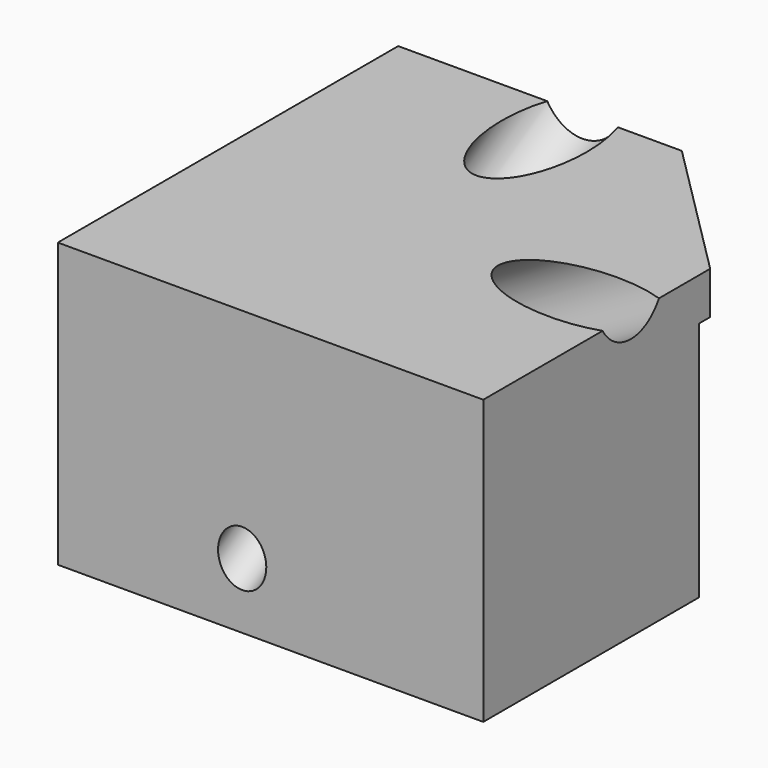
from build123d import *

# Parameters (mm, degrees)
CYLINDER001_R        = 3
CYLINDER001_DEPTH    = 40
CYLINDER_R           = 1.7
CYLINDER_DEPTH       = 40
FUSION001_ROLL_ANGLE = -60
FUSION_PITCH_ANGLE   = 60
BOX001_W             = 18
BOX001_H             = 19
BOX001_DEPTH         = 20
BOX_W                = 30
BOX_H                = 30
BOX_DEPTH            = 20
CHAMFER_SIZE         = 10


with BuildPart() as cylinder001:
    # Cylinder001 → Cylinder001 (new body)
    with BuildSketch(Plane.XY.offset(16)):
        Circle(CYLINDER001_R)
    extrude(amount=CYLINDER001_DEPTH)


with BuildPart() as cylinder:
    # Cylinder → Cylinder (new body)
    with BuildSketch(Plane.XY):
        Circle(CYLINDER_R)
    extrude(amount=CYLINDER_DEPTH)


with BuildPart() as screw001:
    # Fusion001 base: copy of Cylinder
    add(cylinder.part)

    # Fusion001: union Cylinder001
    add(cylinder001.part)


with BuildPart() as screw001_1:
    # Fusion001 roll: moved
    add(screw001.part.rotate(Axis((0, 0, 0), (1, 0, 0)), FUSION001_ROLL_ANGLE))


with BuildPart() as screw001_2:
    # Fusion001 placement: moved
    add(screw001_1.part.moved(Location((13, -8, 0))))


with BuildPart() as fusion002:
    # Fusion base: copy of Cylinder
    add(cylinder.part)

    # Fusion: union Cylinder001
    add(cylinder001.part)


with BuildPart() as fusion002_1:
    # Fusion pitch: moved
    add(fusion002.part.rotate(Axis((0, 0, 0), (0, 1, 0)), FUSION_PITCH_ANGLE))


with BuildPart() as fusion002_2:
    # Fusion placement: moved
    add(fusion002_1.part.moved(Location((-8, 13, 0))))

    # Fusion002: union screw001
    add(screw001_2.part)


with BuildPart() as cube001:
    # Box001 → Box001 (new body)
    with BuildSketch(Plane(origin=(17, 19, -3), x_dir=(1, 0, 0), z_dir=(0, 0, 1))):
        with Locations((9, 9.5)):
            Rectangle(BOX001_W, BOX001_H)
    extrude(amount=BOX001_DEPTH)


with BuildPart() as cut001:
    # Box → Box (new body)
    with BuildSketch(Plane.XY):
        with Locations((15, 15)):
            Rectangle(BOX_W, BOX_H)
    extrude(amount=BOX_DEPTH)

    # Chamfer
    chamfer_edges = [cut001.edges().sort_by_distance(p)[0] for p in [
        (30, 30, 10),
    ]]
    chamfer(chamfer_edges, length=CHAMFER_SIZE)

    # Cut: cut Cube001
    add(cube001.part, mode=Mode.SUBTRACT)

    # Cut001: cut Fusion002
    add(fusion002_2.part, mode=Mode.SUBTRACT)


solid = cut001.part
